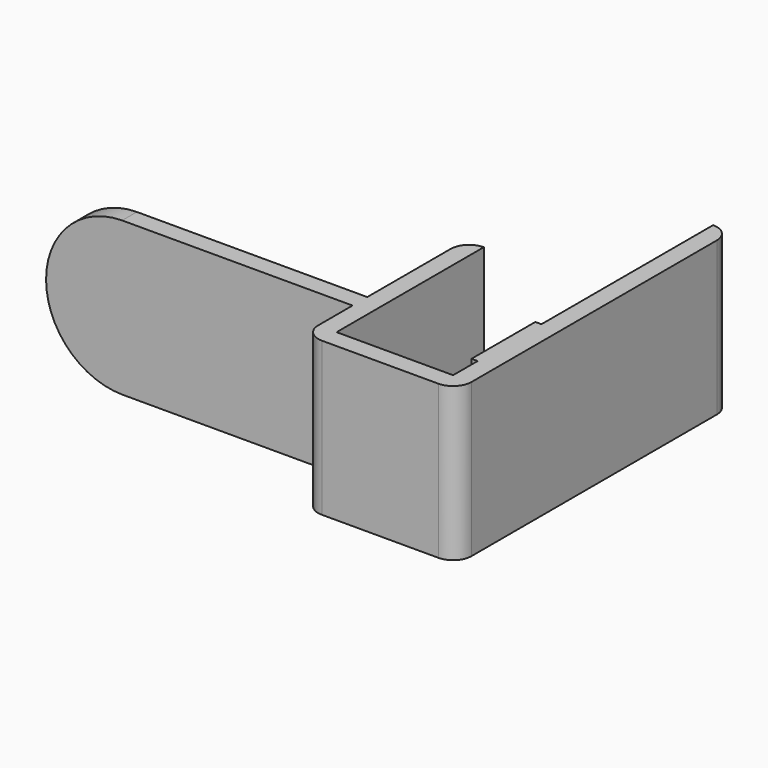
from build123d import *

# Parameters (mm, degrees)
PAD_DEPTH    = 25
POCKET_DEPTH = 5


with BuildPart() as part:
    # Sketch → Pad (new body)
    with BuildSketch(Plane.XY):
        with BuildLine():
            Line((0, 0), (9.47649, 0))
            ThreePointArc((9.47649, 0), (11.59781, 0.87868), (12.47649, 3))
            Line((12.47649, 3), (12.47649, 53))
            ThreePointArc((12.47649, 53), (11.59781, 55.12132), (9.47649, 56))
            Line((9.47649, 21), (9.47649, 56))
            Line((8.47649, 21), (9.47649, 21))
            Line((8.47649, 21), (8.47649, 8))
            Line((8.47649, 8), (9.47649, 8))
            Line((9.47649, 8), (9.47649, 3))
            Line((9.47649, 3), (-9.52351, 3))
            Line((-9.52351, 3), (-9.52351, 33))
            ThreePointArc((-9.52351, 33), (-11.64483, 32.12132), (-12.52351, 30))
            Line((-12.52351, 30), (-12.52351, 13))
            Line((-12.52351, 13), (-62.52351, 13))
            Line((-62.52351, 13), (-62.52351, 10))
            Line((-62.52351, 10), (-12.52351, 10))
            Line((-12.52351, 10), (-12.52351, 3))
            ThreePointArc((-12.52351, 3), (-11.64483, 0.87868), (-9.52351, 0))
            Line((-9.52351, 0), (0, 0))
        make_face()
    extrude(amount=PAD_DEPTH)

    # Sketch001 (on Face10 of Pad) → Pocket (cut)
    with BuildSketch(Plane.XZ.offset(-10)):
        with BuildLine():
            ThreePointArc((-50, 25.000353), (-62.500176, 12.500176), (-50, 0))
            Line((-50, -4.568982), (-50, 0))
            Line((-68, -4.568982), (-50, -4.568982))
            Line((-68, 31), (-68, -4.568982))
            Line((-50, 31), (-68, 31))
            Line((-50, 25.000353), (-50, 31))
        make_face()
    extrude(amount=-POCKET_DEPTH, mode=Mode.SUBTRACT)


solid = part.part
